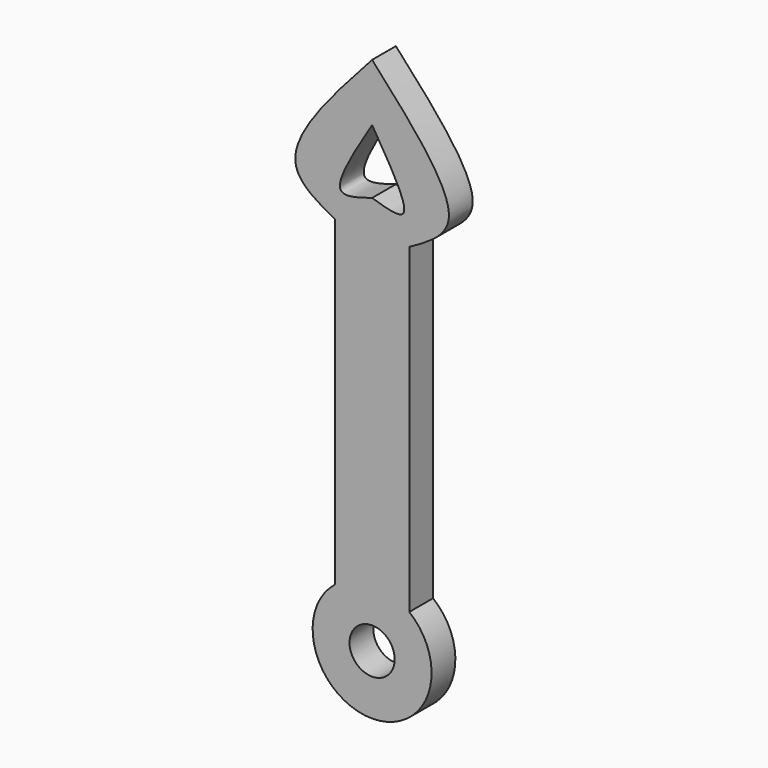
from build123d import *

# Parameters (mm, degrees)
F1_DEPTH = 2


with BuildPart() as f1:
    # F0 (on Front) → F1 (new body)
    with BuildSketch(Plane.XZ):
        with BuildLine():
            Line((-2.5, 24.7390419245), (-2.5, 3.1224989992))
            ThreePointArc((-2.5, 3.1224989992), (-3.7742546282, -1.3247648854), (0, -4))
            ThreePointArc((0, -4), (3.7742546282, -1.3247648854), (2.5, 3.1224989992))
            Line((2.5, 3.1224989992), (2.5, 24.7390419245))
            add(Edge.make_bspline(
                [(0, 35), (2.6780768056, 32.0475395766), (7.0401936793, 27.2384997362), (3.7645832593, 25.4352175715), (2.5, 24.7390419245)],
                knots=[0, 0, 0, 0, 0.6139396742, 1, 1, 1, 1], degree=3))
            add(Edge.make_bspline(
                [(0, 35), (-2.6780768056, 32.0475395766), (-7.0401936793, 27.2384997362), (-3.7645832593, 25.4352175715), (-2.5, 24.7390419245)],
                knots=[0, 0, 0, 0, 0.6139396742, 1, 1, 1, 1], degree=3))
        make_face()
        with BuildLine():
            ThreePointArc((0, -1.5191429047), (-1.5191429047, 0), (0, 1.5191429047))
            ThreePointArc((0, 1.5191429047), (1.5191429047, 0), (0, -1.5191429047))
        make_face(mode=Mode.SUBTRACT)
        with BuildLine():
            add(Edge.make_bspline(
                [(0, 31.1435163021), (-1.2354901485, 29.1288048963), (-3.2717680855, 25.8082507742), (-0.9234860023, 26.5364242479), (0, 26.8227867782)],
                knots=[0, 0, 0, 0, 0.6067394335, 1, 1, 1, 1], degree=3))
            add(Edge.make_bspline(
                [(0, 31.1435163021), (1.2354901485, 29.1288048963), (3.2717680855, 25.8082507742), (0.9234860023, 26.5364242479), (0, 26.8227867782)],
                knots=[0, 0, 0, 0, 0.6067394335, 1, 1, 1, 1], degree=3))
        make_face(mode=Mode.SUBTRACT)
    extrude(amount=F1_DEPTH)


solid = f1.part
